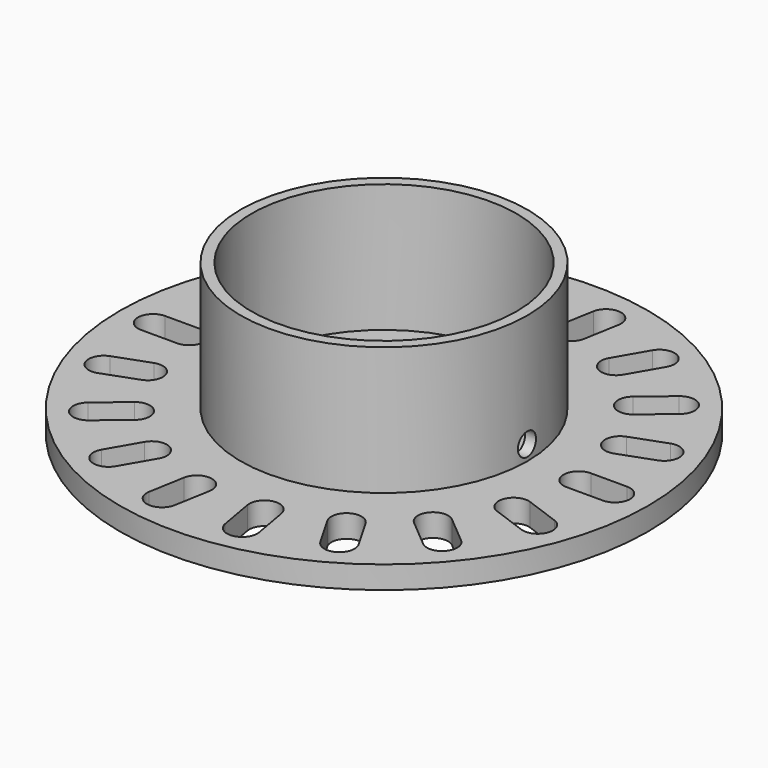
from build123d import *

# Parameters (mm, degrees)
SKETCH_R             = 35
SKETCH_R_2           = 15
PAD_DEPTH            = 3
POCKET_DEPTH         = 198.081792
POCKET_DEPTH_BACK    = 201.081792
POLARPATTERN_COUNT   = 18
SKETCH002_R          = 19
SKETCH002_R_2        = 17.56
PAD001_DEPTH         = 20
SKETCH003_R          = 1.5
POCKET001_DEPTH      = 35.001
POCKET001_DEPTH_BACK = 35.001


with BuildPart() as part:
    # Sketch → Pad (new body)
    with BuildSketch(Plane.XY):
        Circle(SKETCH_R)
        Circle(SKETCH_R_2, mode=Mode.SUBTRACT)
    extrude(amount=PAD_DEPTH)

    # Sketch001 → Pocket (cut, two sides)
    with BuildSketch(Plane.XY) as pocket_sk:
        with BuildLine():
            ThreePointArc((25.8, 2), (23.8, 0), (25.8, -2))
            Line((25.8, -2), (30.6, -2))
            ThreePointArc((30.6, -2), (32.6, 0), (30.6, 2))
            Line((25.8, 2), (30.6, 2))
        make_face()
    pocket = extrude(amount=-POCKET_DEPTH, mode=Mode.SUBTRACT) + extrude(pocket_sk.sketch, amount=POCKET_DEPTH_BACK, mode=Mode.SUBTRACT)

    # PolarPattern: Pocket ×18 about axis
    polarpattern_axis = Axis((0, 0, 0), (0, 0, 1))
    for i in range(1, POLARPATTERN_COUNT):
        add(pocket.rotate(polarpattern_axis, i * 360 / POLARPATTERN_COUNT), mode=Mode.SUBTRACT)

    # Sketch002 → Pad001 (join)
    with BuildSketch(Plane.XY):
        Circle(SKETCH002_R)
        Circle(SKETCH002_R_2, mode=Mode.SUBTRACT)
    extrude(amount=PAD001_DEPTH)

    # Sketch003 → Pocket001 (cut, two sides)
    with BuildSketch(Plane.YZ) as pocket001_sk:
        with Locations((0, 5)):
            Circle(SKETCH003_R)
    extrude(amount=-POCKET001_DEPTH, mode=Mode.SUBTRACT)
    extrude(pocket001_sk.sketch, amount=POCKET001_DEPTH_BACK, mode=Mode.SUBTRACT)


solid = part.part
